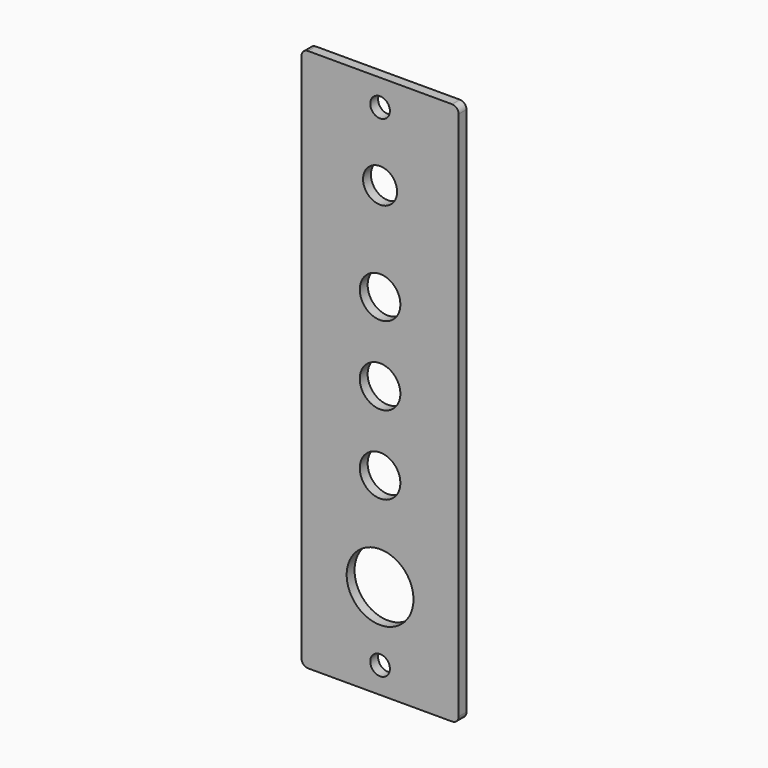
from build123d import *

# Parameters (mm, degrees)
F0_W     = 24
F0_H     = 83
F0_R     = 1.5
F0_R_2   = 5.1
F0_R_3   = 3.1
F0_R_4   = 2.6
F1_DEPTH = 1.5
F2_R     = 1


with BuildPart() as f1:
    # F0 (on Front) → F1 (new body)
    with BuildSketch(Plane.XZ):
        Rectangle(F0_W, F0_H)
        with Locations((0, -37.5)):
            Circle(F0_R, mode=Mode.SUBTRACT)
        with Locations((0, -27)):
            Circle(F0_R_2, mode=Mode.SUBTRACT)
        with Locations((0, -12)):
            Circle(F0_R_3, mode=Mode.SUBTRACT)
        Circle(F0_R_3, mode=Mode.SUBTRACT)
        with Locations((0, 12)):
            Circle(F0_R_3, mode=Mode.SUBTRACT)
        with Locations((0, 27)):
            Circle(F0_R_4, mode=Mode.SUBTRACT)
        with Locations((0, 37.5)):
            Circle(F0_R, mode=Mode.SUBTRACT)
    extrude(amount=F1_DEPTH)

    # F2
    f2_edges = [f1.edges().sort_by_distance(p)[0] for p in [
        (-12, -0.75, 41.5),
        (12, -0.75, 41.5),
        (12, -0.75, -41.5),
        (-12, -0.75, -41.5),
    ]]
    fillet(f2_edges, radius=F2_R)


solid = f1.part
